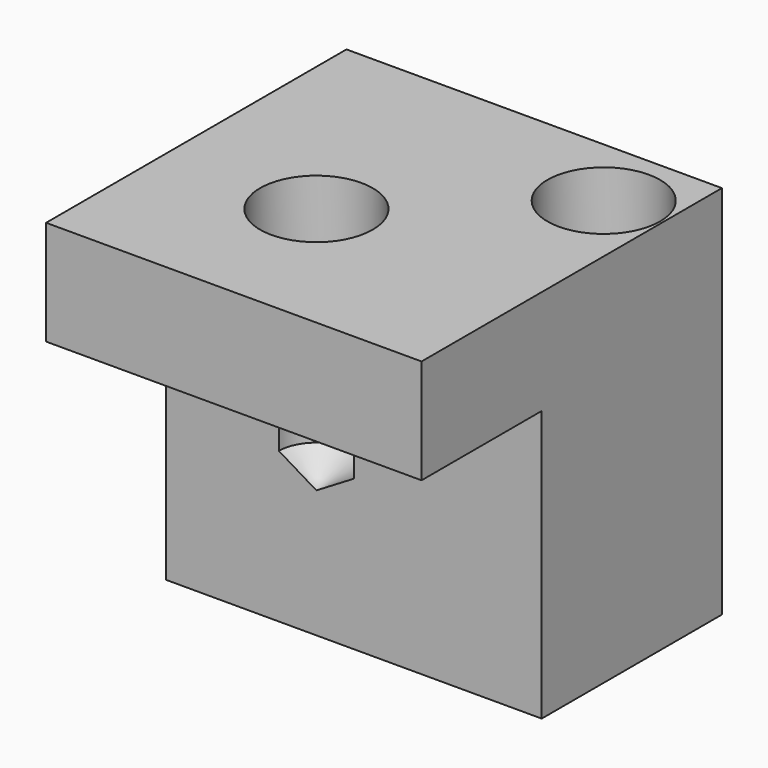
from build123d import *

# Parameters (mm, degrees)
F0_W           = 50
F0_H           = 50
F1_DEPTH       = 50
F3_D           = 10
F3_DEPTH       = 30
F3_CBORE_D     = 15
F3_CBORE_DEPTH = 10
F3_TIP         = 3.0043030951
F4_D           = 10
F4_DEPTH       = 30
F4_CBORE_D     = 15
F4_CBORE_DEPTH = 10
F4_TIP         = 3.0043030951
F5_W           = 62.9621855915
F5_H           = 46.8907589093
F6_DEPTH       = 20


with BuildPart() as f1:
    # F0 (on Top) → F1 (new body)
    with BuildSketch(Plane.XY):
        with Locations((-26.9832524723, 2.7374359779)):
            Rectangle(F0_W, F0_H)
    extrude(amount=F1_DEPTH)

    # F3
    with Locations(Plane.XY.offset(50)):
        with Locations((-31.9832524723, -2.2625640221)):
            CounterBoreHole(F3_D / 2, F3_CBORE_D / 2, F3_CBORE_DEPTH, depth=F3_DEPTH)
            with Locations((0, 0, -(F3_DEPTH + F3_TIP / 2))):  # 118° drill point
                Cone(0, F3_D / 2, F3_TIP, mode=Mode.SUBTRACT)

    # F4
    with Locations(Plane.XY.offset(50)):
        with Locations((-9.8126017437, 17.8528092922)):
            CounterBoreHole(F4_D / 2, F4_CBORE_D / 2, F4_CBORE_DEPTH, depth=F4_DEPTH)
            with Locations((0, 0, -(F4_DEPTH + F4_TIP / 2))):  # 118° drill point
                Cone(0, F4_D / 2, F4_TIP, mode=Mode.SUBTRACT)

    # F5 (on face) → F6 (cut)
    with BuildSketch(Plane.XZ.offset(22.2625640221)):
        with Locations((-22.54726924, 12.6207987778)):
            Rectangle(F5_W, F5_H)
    extrude(amount=-F6_DEPTH, mode=Mode.SUBTRACT)


solid = f1.part
